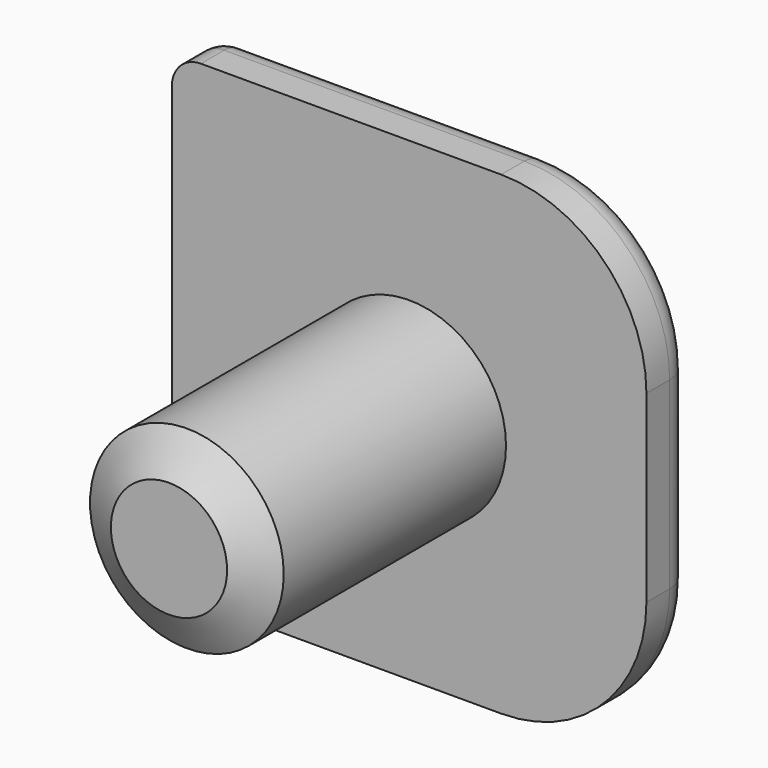
from build123d import *

# Parameters (mm, degrees)
F1_DEPTH = 1.524
F2_R     = 0.762
F3_R     = 2.54
F4_DEPTH = 7.874
F5_SIZE2 = 1.016
F5_SIZE  = 0.5865878735


with BuildPart() as f1:
    # F0 (on Front) → F1 (new body)
    with BuildSketch(Plane.XZ):
        with BuildLine():
            ThreePointArc((6.223, 2.413), (5.1070768363, 5.1070768363), (2.413, 6.223))
            Line((2.413, 6.223), (-5.461, 6.223))
            ThreePointArc((-5.461, 6.223), (-5.9998153673, 5.9998153673), (-6.223, 5.461))
            Line((-6.223, 5.461), (-6.223, -5.461))
            ThreePointArc((-6.223, -5.461), (-5.9998153673, -5.9998153673), (-5.461, -6.223))
            Line((-5.461, -6.223), (2.413, -6.223))
            ThreePointArc((2.413, -6.223), (5.1070768363, -5.1070768363), (6.223, -2.413))
            Line((6.223, -2.413), (6.223, 2.413))
        make_face()
    extrude(amount=F1_DEPTH)

    # F2
    f2_edges = [f1.edges().sort_by_distance(p)[0] for p in [
        (-1.524, 0, -6.223),
    ]]
    fillet(f2_edges, radius=F2_R)

    # F3 (on face) → F4 (join)
    with BuildSketch(Plane.XZ.offset(1.524)):
        Circle(F3_R)
    extrude(amount=F4_DEPTH)

    # F5
    f5_edges = [f1.edges().sort_by_distance(p)[0] for p in [
        (-2.54, -9.398, 0),
    ]]
    f5_side = f1.faces().sort_by_distance((-2.54, -5.461, 0))[0]
    chamfer(f5_edges, length=F5_SIZE, length2=F5_SIZE2, reference=f5_side)


solid = f1.part
